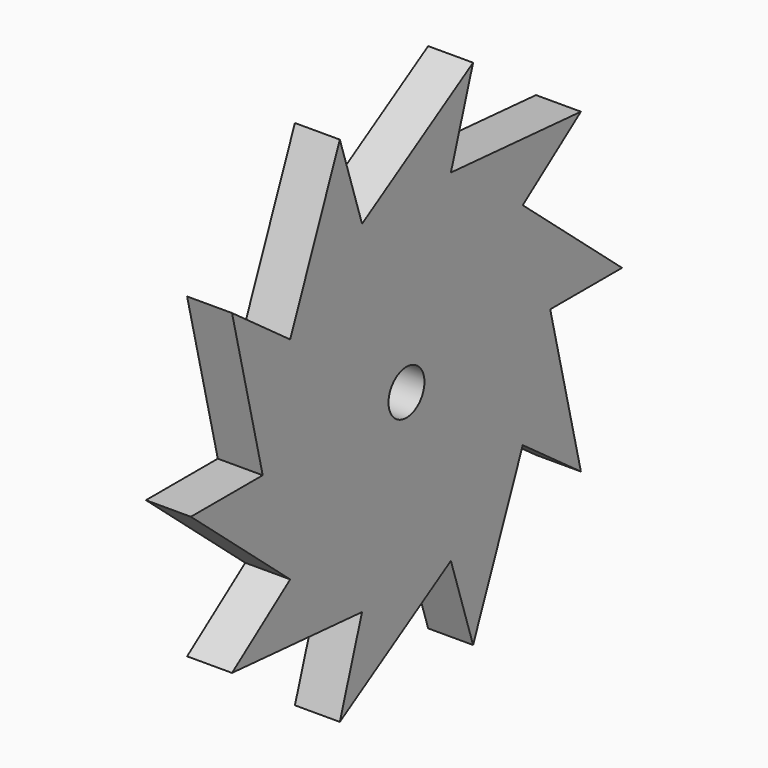
from build123d import *

# Parameters (mm, degrees)
F0_R     = 3.175
F1_DEPTH = 6.35


with BuildPart() as f1:
    # F0 (on Right) → F1 (new body)
    with BuildSketch(Plane.YZ):
        Polygon((25.4, 0), (38.1, 0), (20.549032, 14.929745), (30.823547, 22.394618), (7.849032, 24.156836), (11.773547, 36.235253), (-7.849032, 24.156836), (-11.773547, 36.235253), (-20.549032, 14.929745), (-30.823547, 22.394618), (-25.4, 0), (-38.1, 0), (-20.549032, -14.929745), (-30.823547, -22.394618), (-7.849032, -24.156836), (-11.773547, -36.235253), (7.849032, -24.156836), (11.773547, -36.235253), (20.549032, -14.929745), (30.823547, -22.394618), align=None)
        Circle(F0_R, mode=Mode.SUBTRACT)
    extrude(amount=F1_DEPTH)


solid = f1.part
